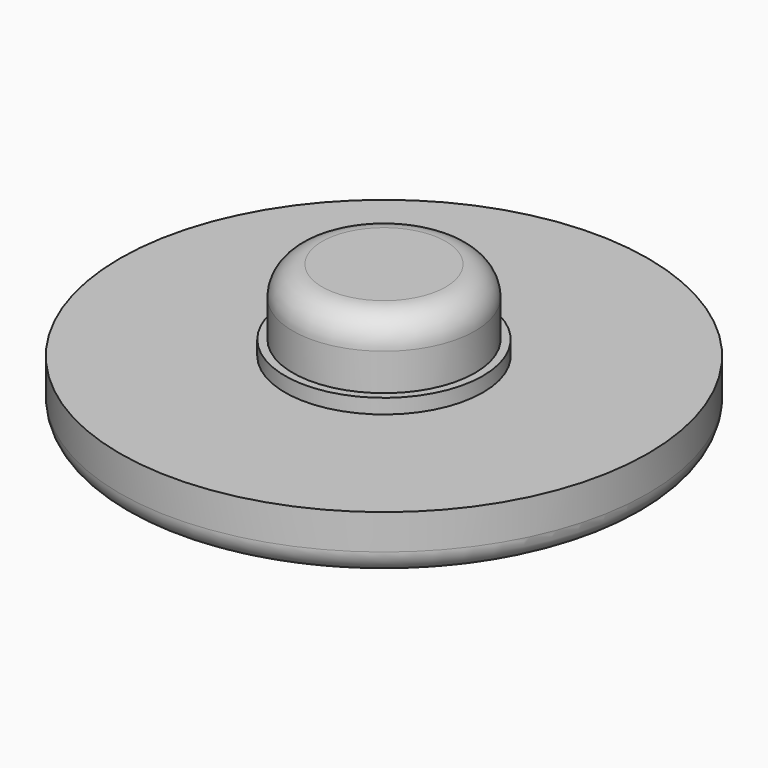
from build123d import *

# Parameters (mm, degrees)
F0_R     = 3.9497
F1_DEPTH = 6.0452
F0_R_2   = 11.4554
F2_DEPTH = 2.54
F3_R     = 1.016
F4_R     = 1.27
F5_R     = 4.2926
F5_R_2   = 3.9497
F6_DEPTH = 0.635


with BuildPart() as f1:
    # F0 (on Top) → F1 (new body)
    with BuildSketch(Plane.XY):
        Circle(F0_R)
    extrude(amount=F1_DEPTH)

    # F0 (on Top) → F2 (join)
    with BuildSketch(Plane.XY):
        Circle(F0_R_2)
        Circle(F0_R, mode=Mode.SUBTRACT)
    extrude(amount=F2_DEPTH)

    # F3
    f3_edges = [f1.edges().sort_by_distance(p)[0] for p in [
        (-11.4554, 0, 0),
    ]]
    fillet(f3_edges, radius=F3_R)

    # F4
    f4_edges = [f1.edges().sort_by_distance(p)[0] for p in [
        (-3.9497, 0, 6.0452),
    ]]
    fillet(f4_edges, radius=F4_R)

    # F5 (on face) → F6 (join)
    with BuildSketch(Plane.XY.offset(2.54)):
        Circle(F5_R)
        Circle(F5_R_2, mode=Mode.SUBTRACT)
    extrude(amount=F6_DEPTH)


solid = f1.part
